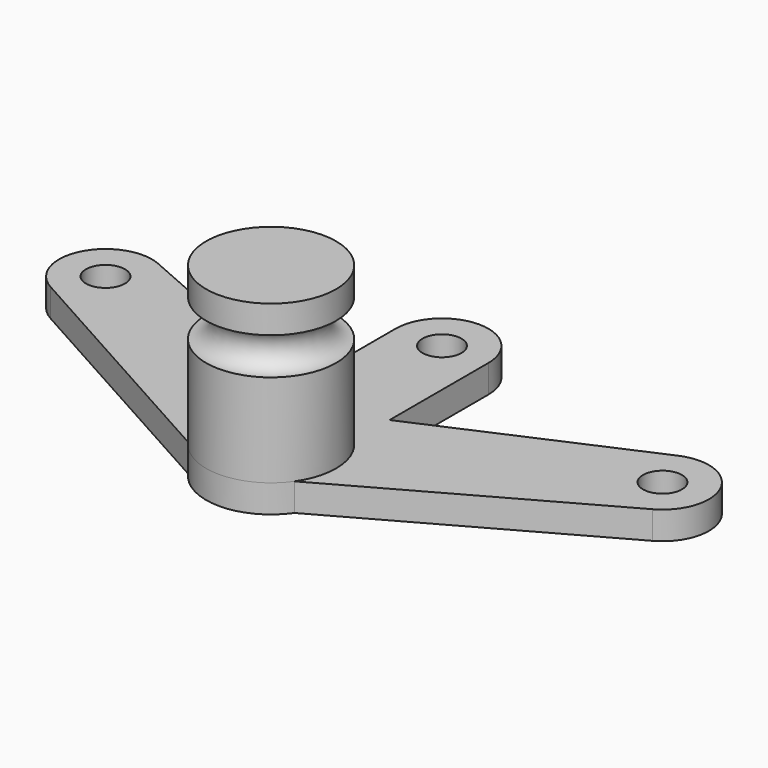
from build123d import *

# Parameters (mm, degrees)
TORUS001_R        = 2
SKETCH003_R       = 2.1
PAD003_DEPTH      = 3
CYLINDER005_R     = 7
CYLINDER005_DEPTH = 20


with BuildPart() as torus001:
    # Torus001 → Torus001 (revolve)
    with BuildSketch(Plane(origin=(0, 0, 15), x_dir=(1, 0, 0), z_dir=(0, -1, 0))):
        with Locations((7, 0)):
            Circle(TORUS001_R)
    revolve(axis=Axis((0, 0, 15), (0, 0, 1)))


with BuildPart() as base_body001:
    # Sketch003 → Pad003 (new body)
    with BuildSketch(Plane.XY):
        with BuildLine():
            Line((-32.430713, 10.8347), (-5.732093, -4.017849))
            ThreePointArc((-5.732093, -4.017849), (0, -7), (5.732093, -4.017849))
            Line((5.732093, -4.017849), (32.430713, 10.8347))
            ThreePointArc((32.430713, 10.8347), (34.479244, 17.425892), (27.992075, 19.783207))
            Line((5, 9.701256), (27.992075, 19.783207))
            Line((5, 23.014347), (5, 9.701256))
            ThreePointArc((5, 23.014347), (0, 28.014347), (-5, 23.014347))
            Line((-5, 9.701256), (-5, 23.014347))
            Line((-27.992075, 19.783207), (-5, 9.701256))
            ThreePointArc((-27.992075, 19.783207), (-34.479244, 17.425892), (-32.430713, 10.8347))
        make_face()
        with Locations((-30, 15.204098)):
            Circle(SKETCH003_R, mode=Mode.SUBTRACT)
        with Locations((30, 15.204098)):
            Circle(SKETCH003_R, mode=Mode.SUBTRACT)
        with Locations((0, 23.014347)):
            Circle(SKETCH003_R, mode=Mode.SUBTRACT)
    extrude(amount=PAD003_DEPTH)


with BuildPart() as base_cut_for_big_metal_plate:
    # Cylinder005 → Cylinder005 (new body)
    with BuildSketch(Plane.XY):
        Circle(CYLINDER005_R)
    extrude(amount=CYLINDER005_DEPTH)

    # Fusion005: union base body001
    add(base_body001.part)

    # Cut003004: cut Torus001
    add(torus001.part, mode=Mode.SUBTRACT)


solid = base_cut_for_big_metal_plate.part
